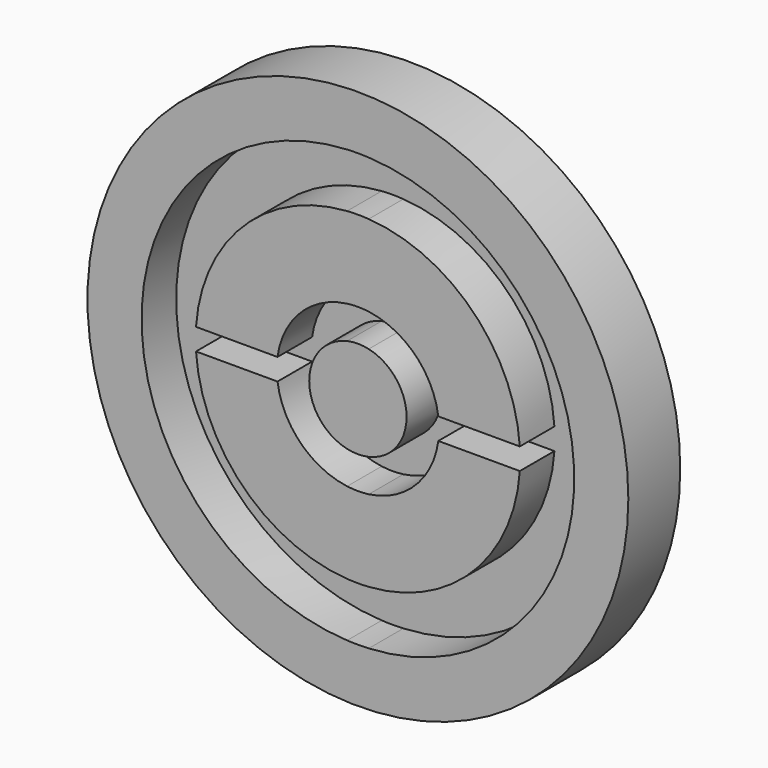
from build123d import *

# Parameters (mm, degrees)
F0_R     = 31.75
F1_DEPTH = 7.62
F2_DEPTH = 2.54


with BuildPart() as f1:
    # F0 (on Front) → F1 (new body)
    with BuildSketch(Plane.XZ):
        with Locations((0, 3.923906)):
            Circle(F0_R)
        with BuildLine():
            ThreePointArc((-1.27, 29.292136), (0, 29.323906), (1.27, 29.292136))
            ThreePointArc((1.27, 29.292136), (25.4, 3.923906), (1.27, -21.444324))
            ThreePointArc((1.27, -21.444324), (0, -21.476094), (-1.27, -21.444324))
            ThreePointArc((-1.27, -21.444324), (-25.4, 3.923906), (-1.27, 29.292136))
        make_face(mode=Mode.SUBTRACT)
        with BuildLine():
            ThreePointArc((1.27, -1.648196), (5.715, 3.923906), (1.27, 9.496008))
            ThreePointArc((1.27, 9.496008), (0, 9.638906), (-1.27, 9.496008))
            ThreePointArc((-1.27, 9.496008), (-5.715, 3.923906), (-1.27, -1.648196))
            ThreePointArc((-1.27, -1.648196), (0, -1.791094), (1.27, -1.648196))
        make_face()
        with BuildLine():
            ThreePointArc((19.00762, 5.193906), (13.470384, 17.39429), (1.27, 22.931525))
            ThreePointArc((1.27, 22.931525), (0, 22.973906), (-1.27, 22.931525))
            ThreePointArc((-1.27, 22.931525), (-13.470384, 17.39429), (-19.00762, 5.193906))
            Line((-19.00762, 5.193906), (-9.439954, 5.193906))
            ThreePointArc((-9.439954, 5.193906), (-6.735192, 10.659098), (-1.27, 13.36386))
            ThreePointArc((-1.27, 13.36386), (0, 13.448906), (1.27, 13.36386))
            ThreePointArc((1.27, 13.36386), (6.735192, 10.659098), (9.439954, 5.193906))
            Line((9.439954, 5.193906), (19.00762, 5.193906))
        make_face()
        with BuildLine():
            ThreePointArc((1.27, -15.083714), (13.470384, -9.546478), (19.00762, 2.653906))
            Line((19.00762, 2.653906), (9.439954, 2.653906))
            ThreePointArc((9.439954, 2.653906), (6.735192, -2.811286), (1.27, -5.516048))
            ThreePointArc((1.27, -5.516048), (0, -5.601094), (-1.27, -5.516048))
            ThreePointArc((-1.27, -5.516048), (-6.735192, -2.811286), (-9.439954, 2.653906))
            Line((-9.439954, 2.653906), (-19.00762, 2.653906))
            ThreePointArc((-19.00762, 2.653906), (-13.470384, -9.546478), (-1.27, -15.083714))
            ThreePointArc((-1.27, -15.083714), (0, -15.126094), (1.27, -15.083714))
        make_face()
    extrude(amount=F1_DEPTH)

    # F0 (on Front) → F2 (join)
    with BuildSketch(Plane.XZ):
        with BuildLine():
            ThreePointArc((-19.00762, 5.193906), (-13.470384, 17.39429), (-1.27, 22.931525))
            Line((-1.27, 22.931525), (-1.27, 29.292136))
            ThreePointArc((-1.27, 29.292136), (-25.4, 3.923906), (-1.27, -21.444324))
            Line((-1.27, -21.444324), (-1.27, -15.083714))
            ThreePointArc((-1.27, -15.083714), (-13.470384, -9.546478), (-19.00762, 2.653906))
            ThreePointArc((-19.00762, 2.653906), (-19.05, 3.923906), (-19.00762, 5.193906))
        make_face()
        with BuildLine():
            Line((1.27, 29.292136), (1.27, 22.931525))
            ThreePointArc((1.27, 22.931525), (13.470384, 17.39429), (19.00762, 5.193906))
            ThreePointArc((19.00762, 5.193906), (19.05, 3.923906), (19.00762, 2.653906))
            ThreePointArc((19.00762, 2.653906), (13.470384, -9.546478), (1.27, -15.083714))
            Line((1.27, -15.083714), (1.27, -21.444324))
            ThreePointArc((1.27, -21.444324), (25.4, 3.923906), (1.27, 29.292136))
        make_face()
        with BuildLine():
            ThreePointArc((19.00762, 2.653906), (19.05, 3.923906), (19.00762, 5.193906))
            Line((19.00762, 5.193906), (9.439954, 5.193906))
            ThreePointArc((9.439954, 5.193906), (6.735192, 10.659098), (1.27, 13.36386))
            Line((1.27, 13.36386), (1.27, 9.496008))
            ThreePointArc((1.27, 9.496008), (5.715, 3.923906), (1.27, -1.648196))
            Line((1.27, -1.648196), (1.27, -5.516048))
            ThreePointArc((1.27, -5.516048), (6.735192, -2.811286), (9.439954, 2.653906))
            Line((9.439954, 2.653906), (19.00762, 2.653906))
        make_face()
        with BuildLine():
            Line((-9.439954, 5.193906), (-19.00762, 5.193906))
            ThreePointArc((-19.00762, 5.193906), (-19.05, 3.923906), (-19.00762, 2.653906))
            Line((-19.00762, 2.653906), (-9.439954, 2.653906))
            ThreePointArc((-9.439954, 2.653906), (-6.735192, -2.811286), (-1.27, -5.516048))
            Line((-1.27, -5.516048), (-1.27, -1.648196))
            ThreePointArc((-1.27, -1.648196), (-5.715, 3.923906), (-1.27, 9.496008))
            Line((-1.27, 9.496008), (-1.27, 13.36386))
            ThreePointArc((-1.27, 13.36386), (-6.735192, 10.659098), (-9.439954, 5.193906))
        make_face()
        with BuildLine():
            ThreePointArc((-1.27, 22.931525), (0, 22.973906), (1.27, 22.931525))
            Line((1.27, 22.931525), (1.27, 29.292136))
            ThreePointArc((1.27, 29.292136), (0, 29.323906), (-1.27, 29.292136))
            Line((-1.27, 29.292136), (-1.27, 22.931525))
        make_face()
        with BuildLine():
            Line((1.27, 9.496008), (1.27, 13.36386))
            ThreePointArc((1.27, 13.36386), (0, 13.448906), (-1.27, 13.36386))
            Line((-1.27, 13.36386), (-1.27, 9.496008))
            ThreePointArc((-1.27, 9.496008), (0, 9.638906), (1.27, 9.496008))
        make_face()
        with BuildLine():
            ThreePointArc((-1.27, -5.516048), (0, -5.601094), (1.27, -5.516048))
            Line((1.27, -5.516048), (1.27, -1.648196))
            ThreePointArc((1.27, -1.648196), (0, -1.791094), (-1.27, -1.648196))
            Line((-1.27, -1.648196), (-1.27, -5.516048))
        make_face()
        with BuildLine():
            ThreePointArc((-1.27, -21.444324), (0, -21.476094), (1.27, -21.444324))
            Line((1.27, -21.444324), (1.27, -15.083714))
            ThreePointArc((1.27, -15.083714), (0, -15.126094), (-1.27, -15.083714))
            Line((-1.27, -15.083714), (-1.27, -21.444324))
        make_face()
    extrude(amount=F2_DEPTH)


solid = f1.part
